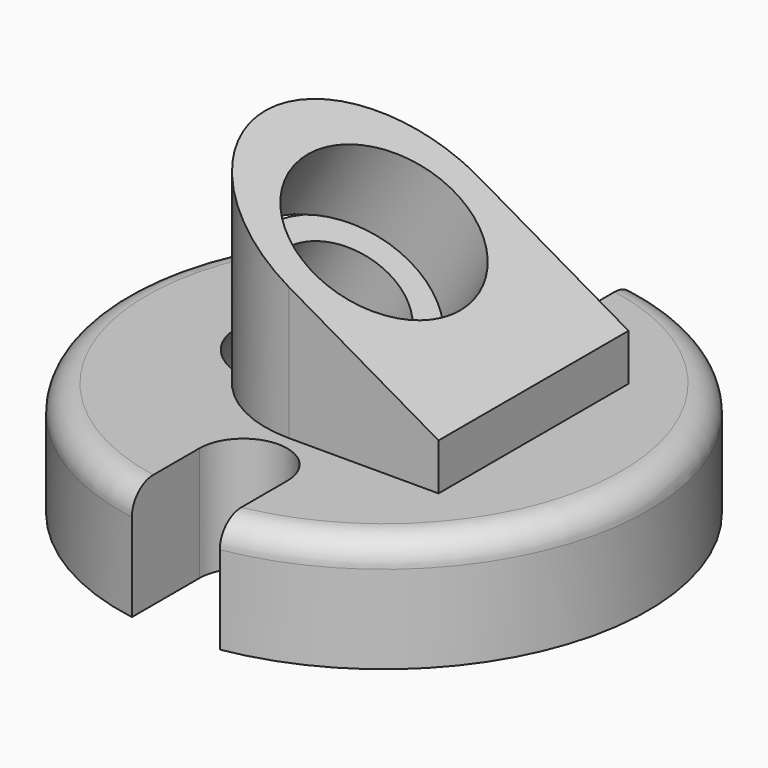
from build123d import *

# Parameters (mm, degrees)
F0_R       = 30
F1_DEPTH   = 13
F3_DEPTH   = 25
F5_DEPTH   = 25
F7_DEPTH   = 25
F9_DEPTH   = 25
F10_R      = 10
F10_R_2    = 7
F11_DEPTH  = 10
F11_FACE_R = 7
F12_DEPTH  = 39.351137
F13_R      = 3
F14_R      = 3


with BuildPart() as f1:
    # F0 (on Top) → F1 (new body)
    with BuildSketch(Plane.XY):
        Circle(F0_R)
    extrude(amount=F1_DEPTH)

    # F2 (on face) → F3 (cut)
    with BuildSketch(Plane.XY.offset(13)):
        with BuildLine():
            Line((5, -29.580399), (5, -20))
            ThreePointArc((5, -20), (0, -25), (-5, -20))
            Line((-5, -20), (-5, -29.580399))
            ThreePointArc((-5, -29.580399), (0, -30), (5, -29.580399))
        make_face()
        with BuildLine():
            ThreePointArc((-5, -20), (0, -25), (5, -20))
            ThreePointArc((5, -20), (0, -15), (-5, -20))
        make_face()
    extrude(amount=-F3_DEPTH, mode=Mode.SUBTRACT)

    # F4 (on face) → F5 (cut)
    with BuildSketch(Plane.XY.offset(13)):
        with BuildLine():
            ThreePointArc((-5, 20), (0, 15), (5, 20))
            ThreePointArc((5, 20), (0, 25), (-5, 20))
        make_face()
        with BuildLine():
            ThreePointArc((-5, 20), (0, 25), (5, 20))
            Line((5, 20), (5, 29.580399))
            ThreePointArc((5, 29.580399), (0, 30), (-5, 29.580399))
            Line((-5, 29.580399), (-5, 20))
        make_face()
    extrude(amount=-F5_DEPTH, mode=Mode.SUBTRACT)

    # F6 (on face) → F7 (join)
    with BuildSketch(Plane.XY.offset(13)):
        with BuildLine():
            ThreePointArc((0, -13.5), (9.545942, -9.545942), (13.5, 0))
            ThreePointArc((13.5, 0), (9.545942, 9.545942), (0, 13.5))
            ThreePointArc((0, 13.5), (-13.5, 0), (0, -13.5))
        make_face()
        with BuildLine():
            ThreePointArc((0, 13.5), (9.545942, 9.545942), (13.5, 0))
            ThreePointArc((13.5, 0), (9.545942, -9.545942), (0, -13.5))
            Line((0, -13.5), (17, -13.5))
            Line((17, -13.5), (17, 13.5))
            Line((17, 13.5), (0, 13.5))
        make_face()
    extrude(amount=F7_DEPTH)

    # F8 (on Front) → F9 (cut, symmetric)
    with BuildSketch(Plane.XZ):
        Polygon((-14.918525, 36.73033), (17, 18.302161), (17, 39.234225), (-14.918525, 39.234225), align=None)
    extrude(amount=F9_DEPTH, both=True, mode=Mode.SUBTRACT)

    # F10 (on face) → F11 (cut)
    with BuildSketch(Plane(origin=(12.175068, 0, 21.087837), x_dir=(0.866025, 0, -0.5), z_dir=(0.5, 0, 0.866025))):
        with Locations((-14.058558, 0)):
            Circle(F10_R)
        with Locations((-14.058558, 0)):
            Circle(F10_R_2, mode=Mode.SUBTRACT)
    extrude(amount=-F11_DEPTH, mode=Mode.SUBTRACT)

    # F11_face (on face) → F12 (cut, through all)
    with BuildSketch(Plane(origin=(0, 0, 28.117116), x_dir=(0, 1, 0), z_dir=(0.5, 0, 0.866025))):
        Circle(F11_FACE_R)
    extrude(amount=-F12_DEPTH, mode=Mode.SUBTRACT)

    # F13
    f13_edges = [f1.edges().sort_by_distance(p)[0] for p in [
        (-30, 0, 13),
    ]]
    fillet(f13_edges, radius=F13_R)

    # F14
    f14_edges = [f1.edges().sort_by_distance(p)[0] for p in [
        (30, 0, 13),
    ]]
    fillet(f14_edges, radius=F14_R)


solid = f1.part
